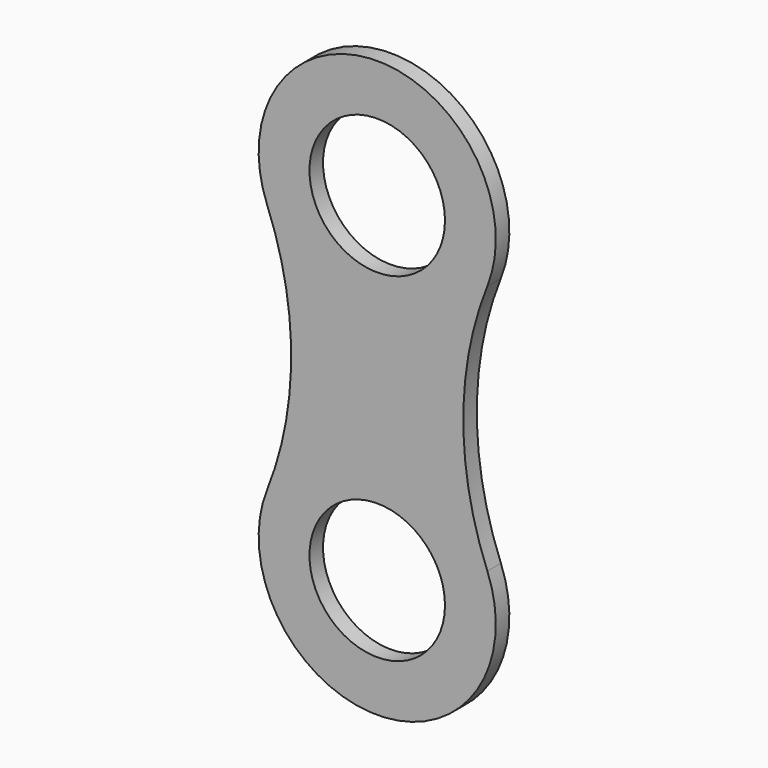
from build123d import *

# Parameters (mm, degrees)
F0_R     = 4
F1_DEPTH = 1


with BuildPart() as f1:
    # F0 (on Front) → F1 (new body)
    with BuildSketch(Plane.XZ):
        with BuildLine():
            ThreePointArc((6.502189, -7.407407), (5.079872, 0), (6.502189, 7.407407))
            ThreePointArc((6.502189, 7.407407), (0, 17), (-6.502189, 7.407407))
            ThreePointArc((-6.502189, 7.407407), (-5.079872, 0), (-6.502189, -7.407407))
            ThreePointArc((-6.502189, -7.407407), (0, -17), (6.502189, -7.407407))
        make_face()
        with Locations((0, -10)):
            Circle(F0_R, mode=Mode.SUBTRACT)
        with Locations((0, 10)):
            Circle(F0_R, mode=Mode.SUBTRACT)
    extrude(amount=F1_DEPTH)


solid = f1.part
